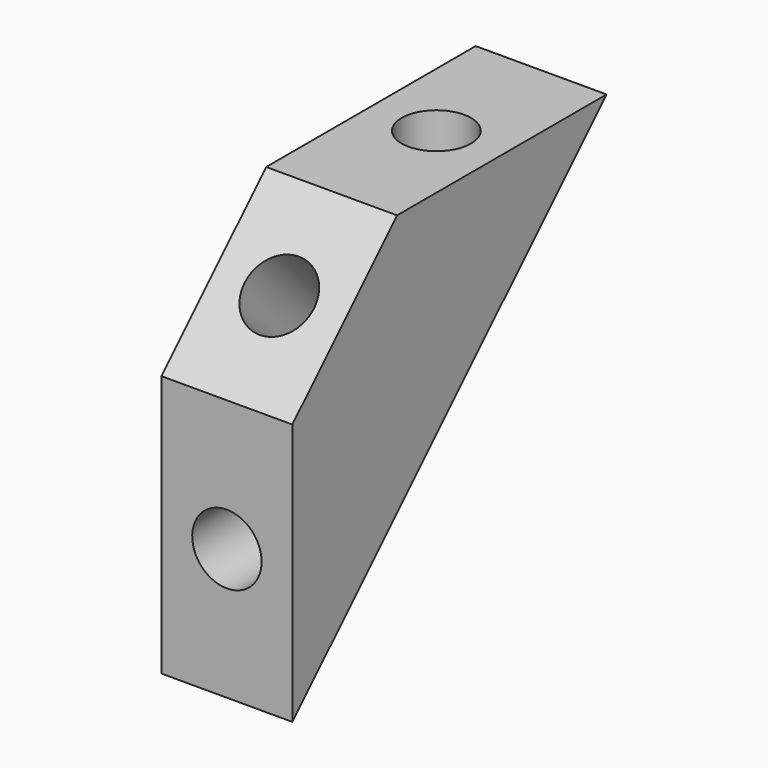
from build123d import *

# Parameters (mm, degrees)
PAD_DEPTH               = 5
SKETCH001_R             = 1.325
HOLE_DEPTH              = 15.0010000001
SKETCH002_R             = 1.325
HOLE001_DEPTH           = 17.6786695297
SKETCH003_R             = 1.325
HOLE002_DEPTH           = 15.001
BODY001_PLACEMENT_ANGLE = 90


with BuildPart() as part:
    # Sketch → Pad (new body)
    with BuildSketch(Plane.XZ.offset(-2.5)):
        Polygon((-10, 25.0000000001), (-19.9999999999, 25.0000000001), (-25, 20), (-25, 10), align=None)
    extrude(amount=PAD_DEPTH)

    # Sketch001 (on Face1 of Pad) → Hole (cut, through all)
    with BuildSketch(Plane(origin=(0, 0, 25.0000000001), x_dir=(-1, 0, 0), z_dir=(0, 0, 1))):
        with Locations((15, 0)):
            Circle(SKETCH001_R)
    extrude(amount=-HOLE_DEPTH, mode=Mode.SUBTRACT)

    # Sketch002 (on Face5 of Hole) → Hole001 (cut, through all)
    with BuildSketch(Plane(origin=(-22.5, 0, 22.5), x_dir=(-0.7071067812, 0, -0.7071067812), z_dir=(-0.7071067812, 0, 0.7071067812))):
        Circle(SKETCH002_R)
    extrude(amount=-HOLE001_DEPTH, mode=Mode.SUBTRACT)

    # Sketch003 (on Face7 of Hole001) → Hole002 (cut, through all)
    with BuildSketch(Plane(origin=(-25, 0, 0), x_dir=(0, 0, -1), z_dir=(-1, 0, 0))):
        with Locations((-15, 0)):
            Circle(SKETCH003_R)
    extrude(amount=-HOLE002_DEPTH, mode=Mode.SUBTRACT)


with BuildPart() as part_1:
    # Body001 placement: moved
    add(part.part.rotate(Axis((0, 0, 0), (0, 0, 1)), BODY001_PLACEMENT_ANGLE))


solid = part_1.part
